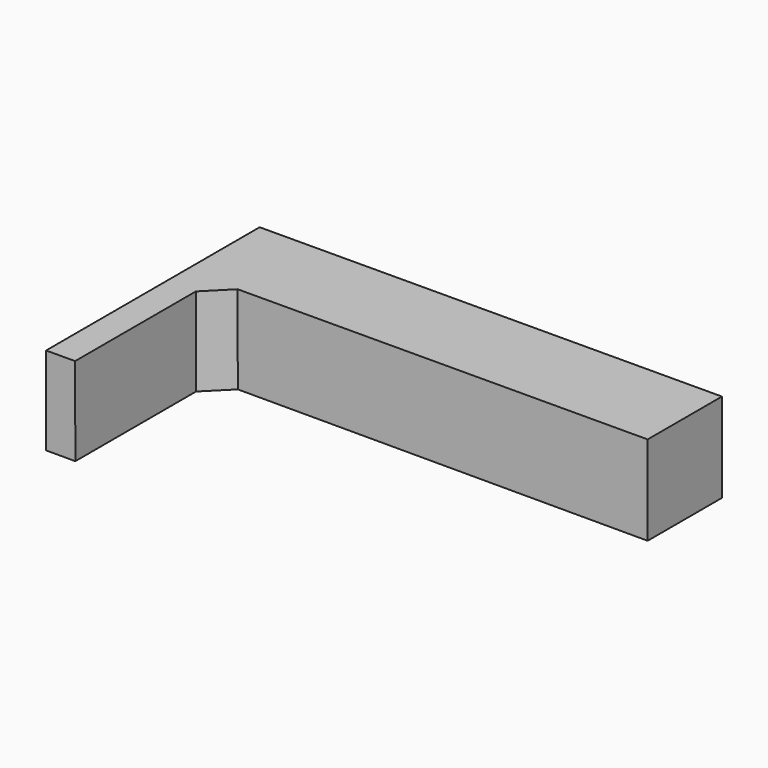
from build123d import *

# Parameters (mm, degrees)
F0_W     = 3505.2
F0_H     = 1188.72
F2_W     = 3505.2
F2_H     = 1155.192
F5_DEPTH = 1187.6712120329
F7_W     = 3505.2
F7_H     = 1828.8
F8_DEPTH = 6045.2008985


with BuildPart() as f3:
    # F0 (on Right) → F3 section 0
    with BuildSketch(Plane.YZ):
        with Locations((-1752.6, 890.016)):
            Rectangle(F0_W, F0_H)
    # F2 (on offset) → F3 section 1
    with BuildSketch(Plane.YZ.offset(-12115.8)):
        with Locations((-1752.6, 873.252)):
            Rectangle(F2_W, F2_H)
    loft()

    # F4 (on face) → F5 (cut, through all)
    with BuildSketch(Plane(origin=(-4.1076757135, 0, 1484.3646328471), x_dir=(0.9999961711, 0, 0.002767285), z_dir=(-0.002767285, 0, 0.9999961711))):
        Polygon((-11730.7386994129, -1524), (-11730.7386994129, -3505.2), (-376.8923085584, -3505.2), (-376.8923085584, -1524), (-681.6923085584, -1219.2), (-11425.9386994129, -1219.2), align=None)
    extrude(amount=-F5_DEPTH, mode=Mode.SUBTRACT)

    # F7 (on offset) → F8 (cut, through all)
    with BuildSketch(Plane.YZ.offset(-6045.1998984)):
        with Locations((-1752.6, 914.4)):
            Rectangle(F7_W, F7_H)
    extrude(amount=F8_DEPTH, mode=Mode.SUBTRACT)


solid = f3.part
